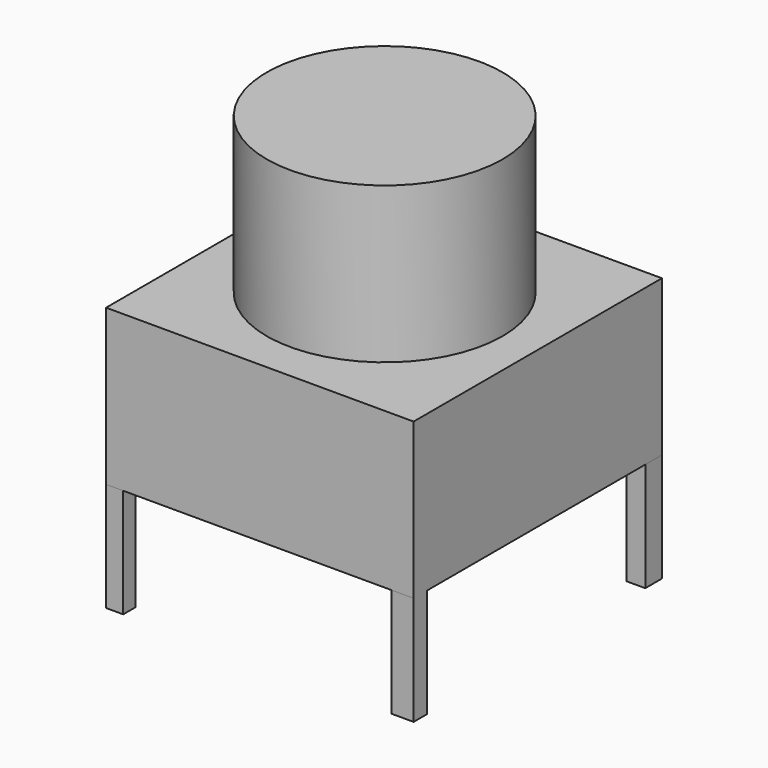
from build123d import *

# Parameters (mm, degrees)
F0_R     = 57.97101
F1_DEPTH = 76.556459
F3_DEPTH = 76.509021
F4_W     = 11.437774
F4_H     = 11.928283
F4_W_2   = 9.122617
F4_H_2   = 10.233626
F4_W_3   = 10.927506
F4_H_3   = 8.273392
F4_W_4   = 8.41286
F4_H_4   = 7.608004
F5_DEPTH = 53.518422


with BuildPart() as f1:
    # F0 (on Top) → F1 (new body)
    with BuildSketch(Plane.XY):
        Circle(F0_R)
    extrude(amount=F1_DEPTH)

    # F2 (on Top) → F3 (join)
    with BuildSketch(Plane.XY):
        Polygon((-75.723298, -76.582767), (75.636029, -76.763391), (75.636029, 75.860277), (-75.723298, 75.860277), align=None)
    extrude(amount=-F3_DEPTH)

    # F4 (on face) → F5 (join)
    with BuildSketch(Plane(origin=(0, 0, -76.509021), x_dir=(1, 0, 0), z_dir=(0, 0, -1))):
        with Locations((-70.004411, -69.896135)):
            Rectangle(F4_W, F4_H)
        with Locations((71.07472, -70.743464)):
            Rectangle(F4_W_2, F4_H_2)
        with Locations((70.172276, 72.626695)):
            Rectangle(F4_W_3, F4_H_3)
        with Locations((-71.516868, 72.778765)):
            Rectangle(F4_W_4, F4_H_4)
    extrude(amount=F5_DEPTH)


solid = f1.part
